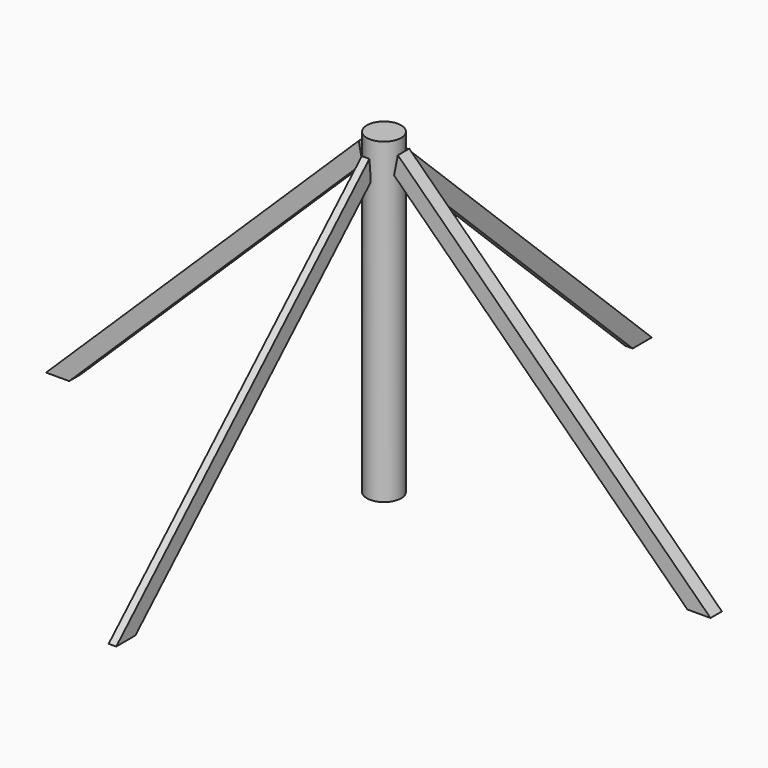
from build123d import *

# Parameters (mm, degrees)
F0_R     = 3.847724
F1_DEPTH = 71.3
F3_DEPTH = 1.6
F6_DEPTH = 1.7


with BuildPart() as f1:
    # F0 (on Top) → F1 (new body)
    with BuildSketch(Plane.XY):
        Circle(F0_R)
    extrude(amount=F1_DEPTH)

    # F2 (on Front) → F3 (join)
    with BuildSketch(Plane.XZ):
        Polygon((-3.540918, 64.444698), (-4.390738, 68.693802), (-74.642539, 0), (-69.447245, 0), align=None)
    extrude(amount=-F3_DEPTH)

    # F4: F1 across plane


with BuildPart() as f1_1:
    add(f1.part)
    add(f1.part.mirror(Plane.YZ))

    # F5 (on Right) → F6 (join)
    with BuildSketch(Plane.YZ):
        Polygon((-3.675503, 62.856996), (-4.107466, 67.560703), (-75.209089, 0), (-69.826894, 0), align=None)
    extrude(amount=-F6_DEPTH)

    # F7: F1 across plane


with BuildPart() as f1_2:
    add(f1_1.part)
    add(f1_1.part.mirror(Plane.XZ))


solid = f1_2.part
